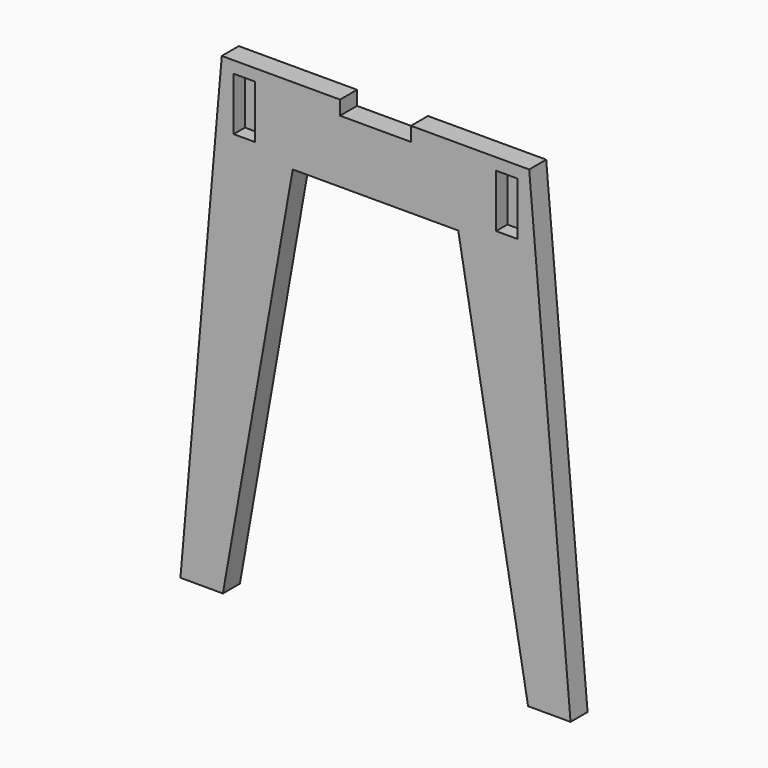
from build123d import *

# Parameters (mm, degrees)
PAD_DEPTH    = 18
SKETCH001_W  = 18
SKETCH001_H  = 45
POCKET_DEPTH = 12


with BuildPart() as part:
    # Sketch → Pad (new body)
    with BuildSketch(Plane.XZ):
        Polygon((-164.995465, 0), (-130, 400), (-30, 400), (-30, 388), (30, 388), (30, 400), (130, 400), (164.995465, 0), (129.069539, 0), (70, 335), (-70, 335), (-129.069539, 0), align=None)
    extrude(amount=PAD_DEPTH)

    # Sketch001 → Pocket (cut)
    with BuildSketch(Plane.XZ.offset(18)):
        with Locations((-111, 367.5)):
            Rectangle(SKETCH001_W, SKETCH001_H)
        with Locations((111, 367.5)):
            Rectangle(SKETCH001_W, SKETCH001_H)
    extrude(amount=-POCKET_DEPTH, mode=Mode.SUBTRACT)


solid = part.part
